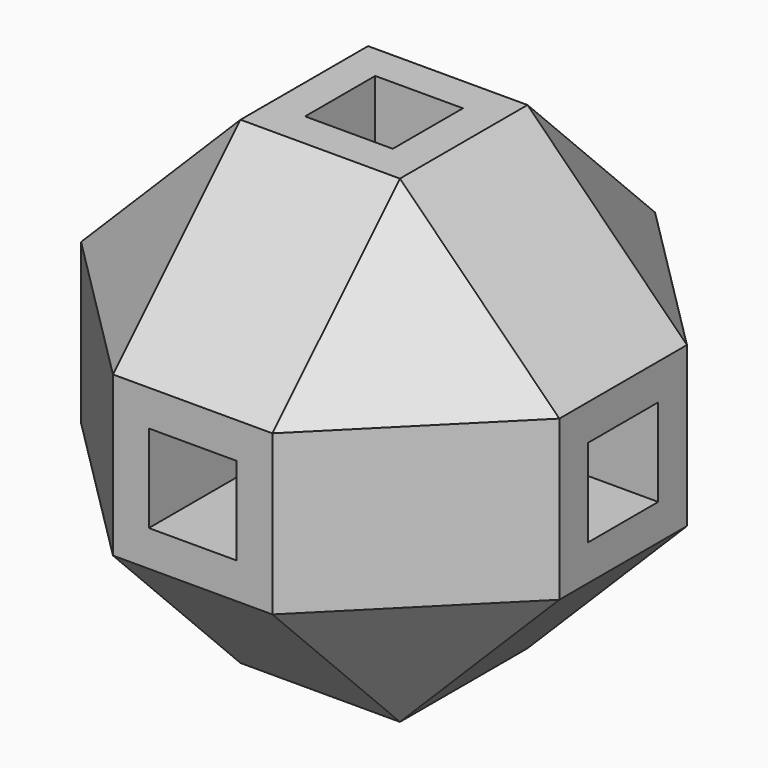
from build123d import *

# Parameters (mm, degrees)
F0_W      = 30
F0_H      = 30
F1_DEPTH  = 30
F2_W      = 5.5
F2_H      = 5.5
F3_DEPTH  = 12
F4_W      = 5.5
F4_H      = 5.5
F5_DEPTH  = 12
F6_W      = 5.5
F6_H      = 5.5
F7_DEPTH  = 12
F8_W      = 5.5
F8_H      = 5.5
F9_DEPTH  = 12
F10_W     = 5.5
F10_H     = 5.5
F11_DEPTH = 12
F12_W     = 5.5
F12_H     = 5.5
F13_DEPTH = 12
F14_SIZE  = 10


with BuildPart() as f1:
    # F0 (on Top) → F1 (new body)
    with BuildSketch(Plane.XY):
        with Locations((15, -15)):
            Rectangle(F0_W, F0_H)
    extrude(amount=F1_DEPTH)

    # F2 (on face) → F3 (cut)
    with BuildSketch(Plane(origin=(0, 0, 0), x_dir=(0, -1, 0), z_dir=(-1, 0, 0))):
        with Locations((15, 15)):
            Rectangle(F2_W, F2_H)
    extrude(amount=-F3_DEPTH, mode=Mode.SUBTRACT)

    # F4 (on face) → F5 (cut)
    with BuildSketch(Plane.YZ.offset(30)):
        with Locations((-15, 15)):
            Rectangle(F4_W, F4_H)
    extrude(amount=-F5_DEPTH, mode=Mode.SUBTRACT)

    # F6 (on face) → F7 (cut)
    with BuildSketch(Plane(origin=(0, 0, 0), x_dir=(-1, 0, 0), z_dir=(0, 1, 0))):
        with Locations((-15, 15)):
            Rectangle(F6_W, F6_H)
    extrude(amount=-F7_DEPTH, mode=Mode.SUBTRACT)

    # F8 (on face) → F9 (cut)
    with BuildSketch(Plane(origin=(0, 0, 0), x_dir=(1, 0, 0), z_dir=(0, 0, -1))):
        with Locations((15, 15)):
            Rectangle(F8_W, F8_H)
    extrude(amount=-F9_DEPTH, mode=Mode.SUBTRACT)

    # F10 (on face) → F11 (cut)
    with BuildSketch(Plane.XY.offset(30)):
        with Locations((15, -15)):
            Rectangle(F10_W, F10_H)
    extrude(amount=-F11_DEPTH, mode=Mode.SUBTRACT)

    # F12 (on face) → F13 (cut)
    with BuildSketch(Plane.XZ.offset(30)):
        with Locations((15, 15)):
            Rectangle(F12_W, F12_H)
    extrude(amount=-F13_DEPTH, mode=Mode.SUBTRACT)

    # F14
    f14_edges = [f1.edges().sort_by_distance(p)[0] for p in [
        (15, -30, 0),
        (30, -30, 15),
        (15, -30, 30),
        (0, -30, 15),
        (30, -15, 0),
        (0, -15, 0),
        (15, 0, 0),
        (30, 0, 15),
        (30, -15, 30),
        (0, -15, 30),
        (15, 0, 30),
        (0, 0, 15),
    ]]
    chamfer(f14_edges, length=F14_SIZE)


solid = f1.part
